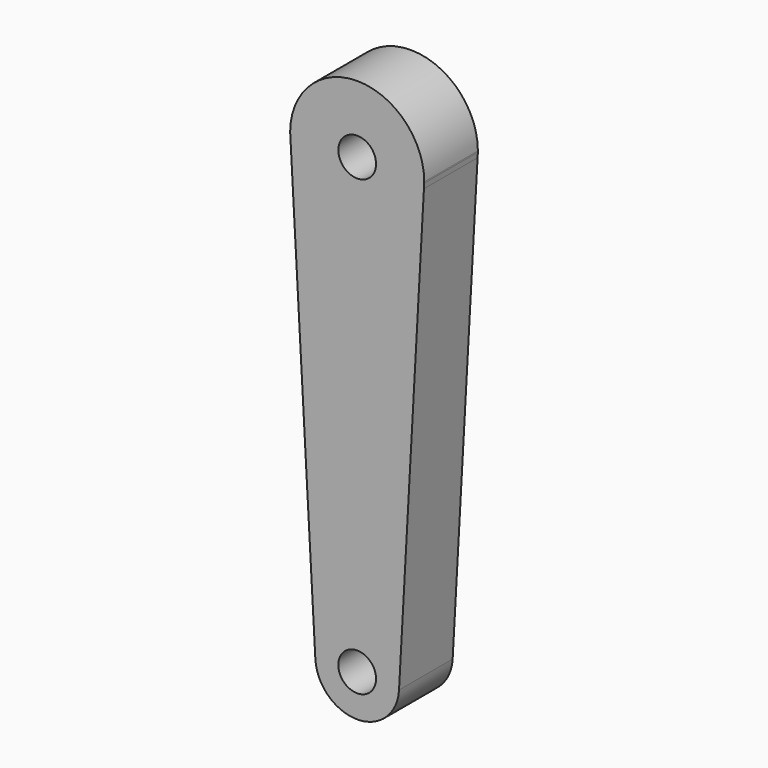
from build123d import *

# Parameters (mm, degrees)
F0_R     = 7.1501
F1_DEPTH = 25.4


with BuildPart() as f1:
    # F0 (on Front) → F1 (new body)
    with BuildSketch(Plane.XZ):
        with BuildLine():
            ThreePointArc((25.2923109526, 128.4121790948), (0.3078063491, 105.3504959458), (-25.2282585963, 127.7999076763))
            Line((-25.2282585963, 127.7999076763), (-15.8507982355, -41.8316227352))
            ThreePointArc((-15.8507982355, -41.8316227352), (-0.4382938581, -25.0864207714), (15.875, -40.9553691768))
            ThreePointArc((15.875, -40.9553691768), (15.8689095808, -41.3950664769), (15.8506429964, -41.8344263987))
            Line((15.8506429964, -41.8344263987), (25.2923109526, 128.4121790948))
        make_face()
        with BuildLine():
            ThreePointArc((25.3955649857, 130.273995114), (25.3988912222, 130.5113026086), (25.4, 130.7486308232))
            ThreePointArc((25.4, 130.7486308232), (0.0749748393, 156.1485201689), (-25.3995573837, 130.8985798486))
            Line((-25.3995573837, 130.8985798486), (-25.2282585963, 127.7999076763))
            ThreePointArc((-25.2282585963, 127.7999076763), (0.3078063491, 105.3504959458), (25.2923109526, 128.4121790948))
            Line((25.2923109526, 128.4121790948), (25.3955649857, 130.273995114))
        make_face()
        with Locations((0, 130.7486308232)):
            Circle(F0_R, mode=Mode.SUBTRACT)
        with BuildLine():
            ThreePointArc((15.875, -40.9553691768), (-0.4382938581, -25.0864207714), (-15.8507982355, -41.8316227352))
            ThreePointArc((-15.8507982355, -41.8316227352), (-0.001403979, -56.8303691147), (15.8506429964, -41.8344263987))
            ThreePointArc((15.8506429964, -41.8344263987), (15.8689095808, -41.3950664769), (15.875, -40.9553691768))
        make_face()
        with Locations((0, -40.9553691768)):
            Circle(F0_R, mode=Mode.SUBTRACT)
    extrude(amount=F1_DEPTH)


solid = f1.part
